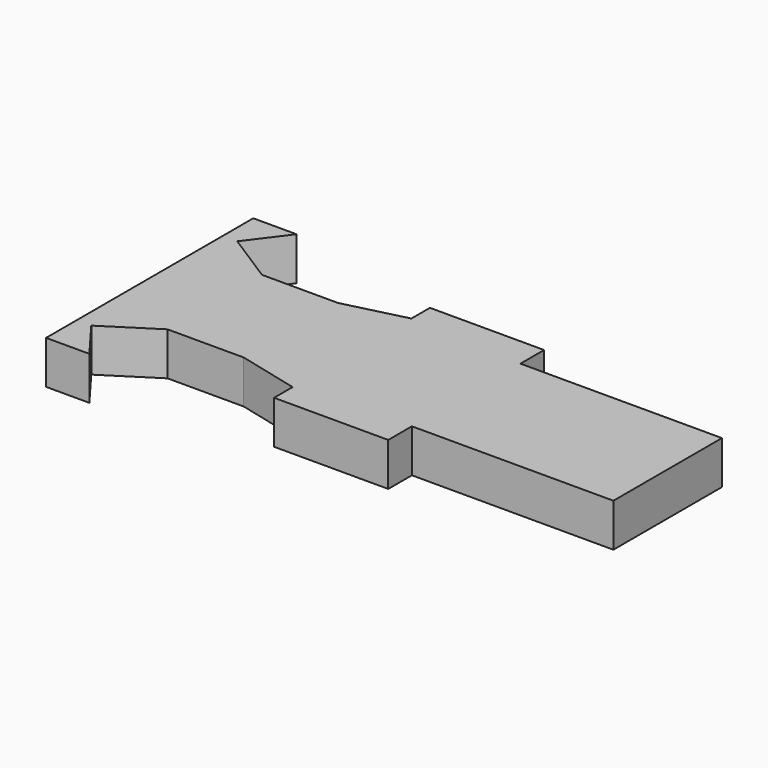
from build123d import *

# Parameters (mm, degrees)
F1_DEPTH = 25


with BuildPart() as f1:
    # F0 (on Top) → F1 (new body)
    with BuildSketch(Plane.XY):
        Polygon((-119.999088, 70.271895), (-145.054845, 70.271895), (-145.054845, -4.728105), (154.945155, -4.728105), (154.945155, 34.557704), (38.243244, 34.557704), (38.243244, 51.679398), (-27.86764, 51.679398), (-27.86764, 38.264241), (-63.234318, 29.4492), (-107.370697, 29.4492), (-136.594363, 48.13442), align=None)
        Polygon((154.945155, -4.728105), (-145.054845, -4.728105), (-145.054845, -79.728105), (-119.999088, -79.728105), (-136.594363, -57.59063), (-107.370697, -38.90541), (-63.234318, -38.90541), (-27.86764, -47.720451), (-27.86764, -61.135609), (38.243244, -61.135609), (38.243244, -44.013914), (154.945155, -44.013914), align=None)
    extrude(amount=F1_DEPTH)


solid = f1.part
